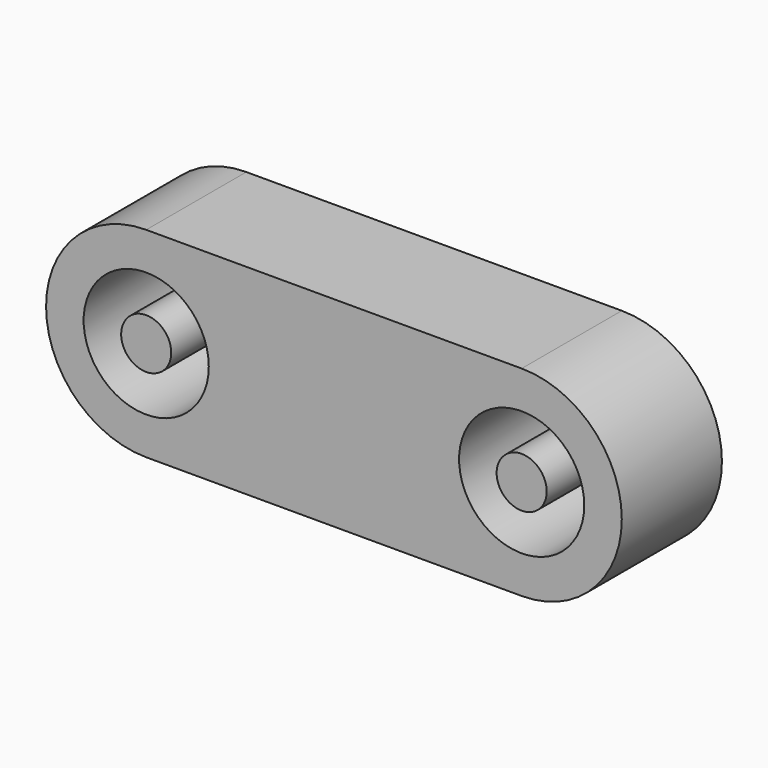
from build123d import *

# Parameters (mm, degrees)
F0_R     = 2.5
F0_R_2   = 1
F1_DEPTH = 2.5


with BuildPart() as f1:
    # F0 (on Front) → F1 (new body, symmetric)
    with BuildSketch(Plane.XZ):
        with BuildLine():
            Line((15, 4), (0, 4))
            ThreePointArc((0, 4), (-4, 0), (0, -4))
            Line((0, -4), (15, -4))
            ThreePointArc((15, -4), (19, 0), (15, 4))
        make_face()
        Circle(F0_R, mode=Mode.SUBTRACT)
        with Locations((15, 0)):
            Circle(F0_R, mode=Mode.SUBTRACT)
        Circle(F0_R_2)
        with Locations((15, 0)):
            Circle(F0_R_2)
    extrude(amount=F1_DEPTH, both=True)


solid = f1.part
